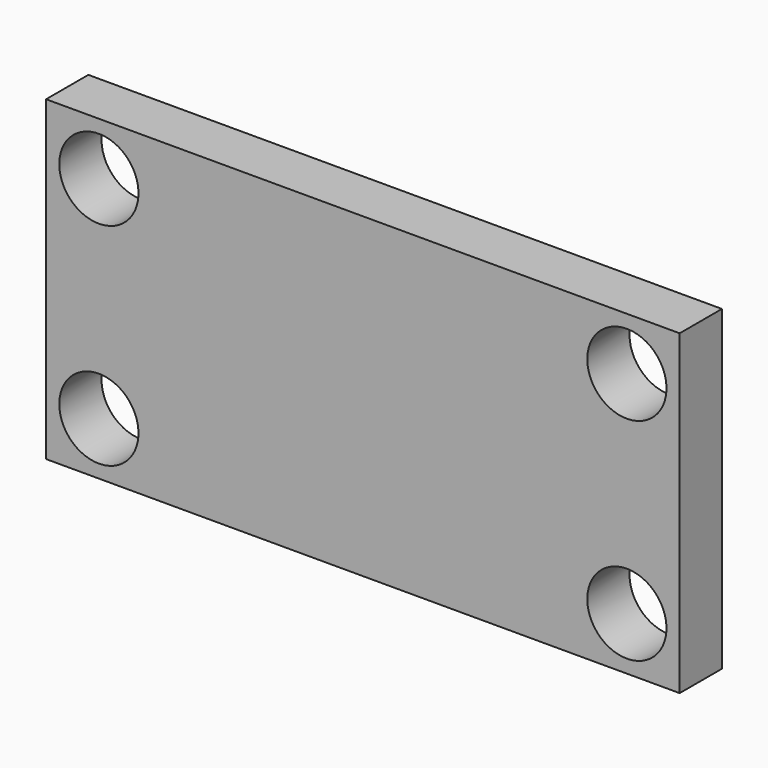
from build123d import *

# Parameters (mm, degrees)
F0_W     = 152.4
F0_H     = 76.2
F1_DEPTH = 12.7
F2_R     = 9.525
F3_DEPTH = 12.701


with BuildPart() as f1:
    # F0 (on Front) → F1 (new body)
    with BuildSketch(Plane.XZ):
        Rectangle(F0_W, F0_H)
    extrude(amount=F1_DEPTH)

    # F2 (on face) → F3 (cut, through all)
    with BuildSketch(Plane(origin=(0, 0, 0), x_dir=(-1, 0, 0), z_dir=(0, 1, 0))):
        with Locations((63.5, 25.4)):
            Circle(F2_R)
        with Locations((63.5, -25.4)):
            Circle(F2_R)
        with Locations((-63.5, -25.4)):
            Circle(F2_R)
        with Locations((-63.5, 25.4)):
            Circle(F2_R)
    extrude(amount=-F3_DEPTH, mode=Mode.SUBTRACT)

    # F4 (on Top) → F5 (revolve)
    with BuildSketch(Plane.XY):
        with BuildLine():
            ThreePointArc((-20.746347, 0), (-20.507447, -0.003656), (-20.268548, 0))
            Line((-20.268548, 0), (-20.746347, 0))
        make_face()
        Polygon((-12.7, 0), (0, 0), (0, 38.1), (-12.7, 38.1), (-12.7, 7.803791), align=None)
        with BuildLine():
            Line((-20.268548, 0), (-12.7, 0))
            Line((-12.7, 0), (-12.7, 7.803791))
            ThreePointArc((-12.7, 7.803791), (-14.902921, 2.368212), (-20.268548, 0))
        make_face()
    revolve(axis=Axis((0, 19.05, 0), (0, 1, 0)))

    # F6 (on Top) → F7 (revolve, cut)
    with BuildSketch(Plane.XY):
        with BuildLine():
            Line((-15.973667, 12.416507), (-7.864556, 12.416507))
            ThreePointArc((-7.864556, 12.416507), (-6.068504, 13.160456), (-5.324556, 14.956507))
            Line((-5.324556, 14.956507), (-5.324556, 17.437313))
            ThreePointArc((-5.324556, 17.437313), (-6.068504, 19.233365), (-7.864556, 19.977313))
            Line((-7.864556, 19.977313), (-15.973667, 19.977313))
            Line((-15.973667, 19.977313), (-15.973667, 12.416507))
        make_face()
    revolve(axis=Axis((0, 8.098455, 0), (0, 1, 0)), mode=Mode.SUBTRACT)


solid = f1.part
